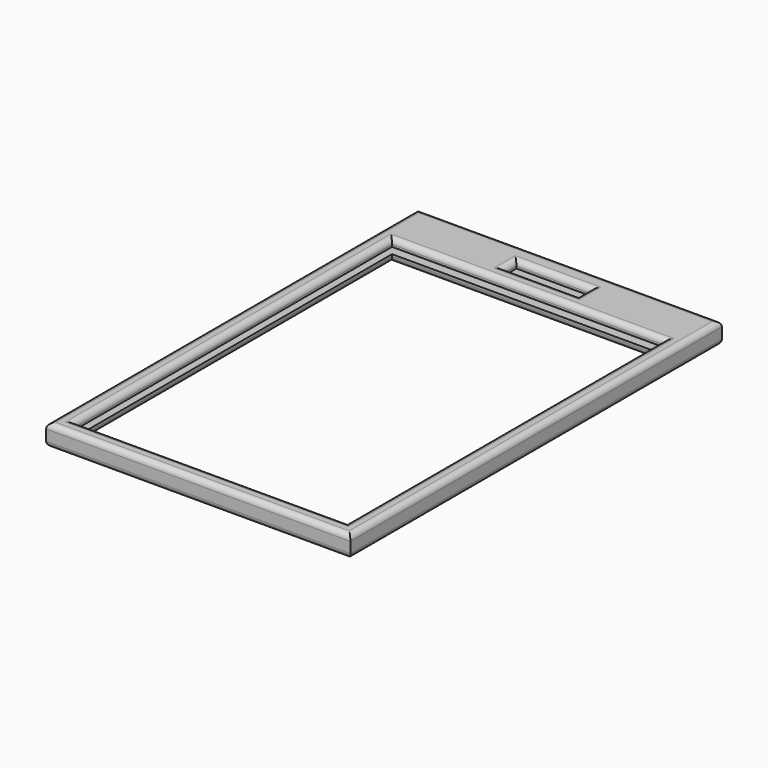
from build123d import *

# Parameters (mm, degrees)
F0_W          = 57
F0_H          = 87
F1_DEPTH      = 2
F2_W          = 14
F2_H          = 3
F3_DEPTH      = 12.5
F4_W          = 54
F4_H          = 1.2
F5_DEPTH      = 50
F5_DEPTH_BACK = 42.5
F6_W          = 25.5
F6_H          = 33.75
F6_H_2        = 40.5
F7_DEPTH      = 12.5
F8_R          = 1


with BuildPart() as f1:
    # F0 (on Top) → F1 (new body, symmetric)
    with BuildSketch(Plane.XY):
        Rectangle(F0_W, F0_H)
    extrude(amount=F1_DEPTH, both=True)

    # F2 (on Top) → F3 (cut, symmetric)
    with BuildSketch(Plane.XY):
        with Locations((0, 38.25)):
            Rectangle(F2_W, F2_H)
    extrude(amount=F3_DEPTH, both=True, mode=Mode.SUBTRACT)

    # F4 (on Front) → F5 (cut, two sides)
    with BuildSketch(Plane.XZ) as f5_sk:
        Rectangle(F4_W, F4_H)
    extrude(amount=-F5_DEPTH, mode=Mode.SUBTRACT)
    extrude(f5_sk.sketch, amount=F5_DEPTH_BACK, mode=Mode.SUBTRACT)

    # F6 (on Top) → F7 (cut, symmetric)
    with BuildSketch(Plane.XY):
        with Locations((12.75, 16.875)):
            Rectangle(F6_W, F6_H)
        with Locations((-12.75, 16.875)):
            Rectangle(F6_W, F6_H)
        with Locations((12.75, -20.25)):
            Rectangle(F6_W, F6_H_2)
        with Locations((-12.75, -20.25)):
            Rectangle(F6_W, F6_H_2)
    extrude(amount=F7_DEPTH, both=True, mode=Mode.SUBTRACT)

    # F8
    f8_edges = [f1.edges().sort_by_distance(p)[0] for p in [
        (-28.5, 0, 2),
        (-25.5, -3.375, 2),
        (0, -40.5, 2),
        (0, -43.5, 2),
        (25.5, -3.375, 2),
        (28.5, 0, 2),
        (0, 33.75, 2),
        (0, 43.5, 2),
        (-28.5, 0, -2),
        (0, 43.5, -2),
        (0, 33.75, -2),
        (25.5, -3.375, -2),
        (-25.5, -3.375, -2),
        (28.5, 0, -2),
        (0, -40.5, -2),
        (0, 36.75, -2),
        (7, 38.25, -2),
        (-7, 38.25, -2),
        (0, 39.75, -2),
        (0, 36.75, 2),
        (-7, 38.25, 2),
        (7, 38.25, 2),
        (0, -43.5, -2),
        (0, 39.75, 2),
    ]]
    fillet(f8_edges, radius=F8_R)


solid = f1.part
